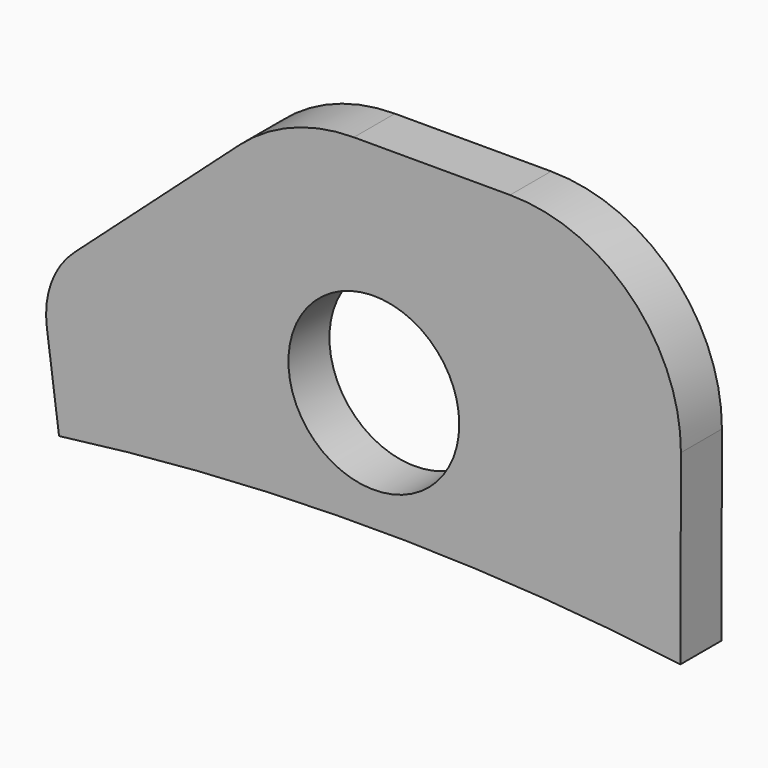
from build123d import *

# Parameters (mm, degrees)
F0_R     = 5
F1_DEPTH = 3
F2_R     = 10
F3_R     = 5


with BuildPart() as f1:
    # F0 (on Front) → F1 (new body)
    with BuildSketch(Plane.XZ):
        with BuildLine():
            ThreePointArc((-18.427902, 138.781888), (-0.24164, 139.999791), (17.948718, 138.844674))
            Line((17.948718, 138.844674), (18, 159.789056))
            Line((18, 159.789056), (0, 159.789056))
            Line((0, 159.789056), (-5, 159.789056))
            Line((-5, 159.789056), (-19.489739, 146.778655))
            Line((-19.489739, 146.778655), (-18.427902, 138.781888))
        make_face()
        with Locations((0, 147)):
            Circle(F0_R, mode=Mode.SUBTRACT)
    extrude(amount=F1_DEPTH)

    # F2
    f2_edges = [f1.edges().sort_by_distance(p)[0] for p in [
        (18, -1.5, 159.789056),
        (-5, -1.5, 159.789056),
    ]]
    fillet(f2_edges, radius=F2_R)

    # F3
    f3_edges = [f1.edges().sort_by_distance(p)[0] for p in [
        (-19.489739, -1.5, 146.778655),
    ]]
    fillet(f3_edges, radius=F3_R)


solid = f1.part
